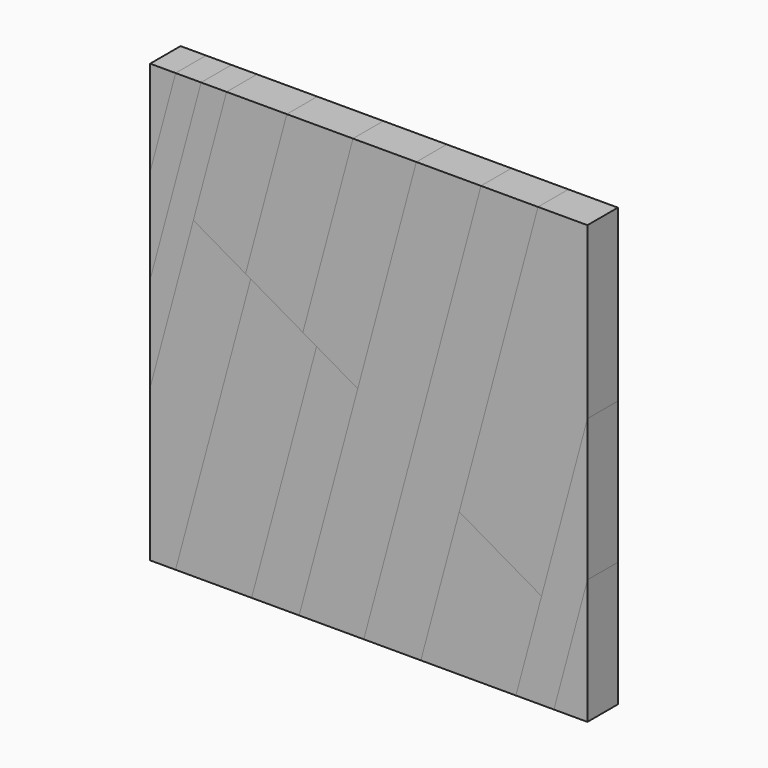
from build123d import *

# Parameters (mm, degrees)
F2_DEPTH  = 25.4
F3_DEPTH  = 25.4
F4_DEPTH  = 25.4
F5_DEPTH  = 25.4
F6_DEPTH  = 25.4
F7_DEPTH  = 25.4
F8_DEPTH  = 25.4
F9_DEPTH  = 25.4
F10_DEPTH = 25.4
F11_DEPTH = 25.4
F12_DEPTH = 25.4
F13_DEPTH = 25.4
F14_DEPTH = 25.4
F15_DEPTH = 25.4
F16_DEPTH = 25.4


with BuildPart() as f2:
    # F1 (on face) → F2 (new body)
    with BuildSketch(Plane.XZ):
        Polygon((115.398987, -82.094046), (98.262041, -146.05), (123.662041, -146.05), (146.05, -62.496999), (146.05, 32.297091), align=None)
    extrude(amount=F2_DEPTH)


with BuildPart() as f3:
    # F1 (on face) → F3 (new body)
    with BuildSketch(Plane.XZ):
        Polygon((146.05, -62.496999), (123.662041, -146.05), (146.05, -146.05), align=None)
    extrude(amount=F3_DEPTH)


with BuildPart() as f4:
    # F1 (on face) → F4 (new body)
    with BuildSketch(Plane.XZ):
        Polygon((60.406374, -50.344046), (34.762041, -146.05), (98.262041, -146.05), (115.398987, -82.094046), align=None)
    extrude(amount=F4_DEPTH)


with BuildPart() as f5:
    # F1 (on face) → F5 (new body)
    with BuildSketch(Plane.XZ):
        Polygon((113.03, 146.05), (60.406374, -50.344046), (115.398987, -82.094046), (146.05, 32.297091), (146.05, 146.05), align=None)
    extrude(amount=F5_DEPTH)


with BuildPart() as f6:
    # F1 (on face) → F6 (new body)
    with BuildSketch(Plane.XZ):
        Polygon((74.93, 146.05), (-3.337959, -146.05), (34.762041, -146.05), (60.406374, -50.344046), (113.03, 146.05), align=None)
    extrude(amount=F6_DEPTH)


with BuildPart() as f7:
    # F1 (on face) → F7 (new body)
    with BuildSketch(Plane.XZ):
        Polygon((-7.38398, 0), (-46.517959, -146.05), (-3.337959, -146.05), (74.93, 146.05), (31.75, 146.05), align=None)
    extrude(amount=F7_DEPTH)


with BuildPart() as f8:
    # F1 (on face) → F8 (new body)
    with BuildSketch(Plane.XZ):
        Polygon((-34.880286, 15.875), (-78.267959, -146.05), (-46.517959, -146.05), (-7.38398, 0), align=None)
    extrude(amount=F8_DEPTH)


with BuildPart() as f9:
    # F1 (on face) → F9 (new body)
    with BuildSketch(Plane.XZ):
        Polygon((-44.033108, 21.159384), (-34.880286, 15.875), (-7.38398, 0), (31.75, 146.05), (-10.568768, 146.05), align=None)
    extrude(amount=F9_DEPTH)


with BuildPart() as f10:
    # F1 (on face) → F10 (new body)
    with BuildSketch(Plane.XZ):
        Polygon((-82.298625, 43.251991), (-78.874377, 41.275), (-44.033108, 21.159384), (-10.568768, 146.05), (-54.753982, 146.05), align=None)
    extrude(amount=F10_DEPTH)


with BuildPart() as f11:
    # F1 (on face) → F11 (new body)
    with BuildSketch(Plane.XZ):
        Polygon((-78.874377, 41.275), (-129.067959, -146.05), (-78.267959, -146.05), (-34.880286, 15.875), (-44.033108, 21.159384), align=None)
    extrude(amount=F11_DEPTH)


with BuildPart() as f12:
    # F1 (on face) → F12 (new body)
    with BuildSketch(Plane.XZ):
        Polygon((-146.05, -44.45), (-146.05, -146.05), (-129.067959, -146.05), (-78.874377, 41.275), (-82.298625, 43.251991), (-117.157618, 63.377839), align=None)
    extrude(amount=F12_DEPTH)


with BuildPart() as f13:
    # F1 (on face) → F13 (new body)
    with BuildSketch(Plane.XZ):
        Polygon((-95.005679, 146.05), (-117.157618, 63.377839), (-82.298625, 43.251991), (-54.753982, 146.05), align=None)
    extrude(amount=F13_DEPTH)


with BuildPart() as f14:
    # F1 (on face) → F14 (new body)
    with BuildSketch(Plane.XZ):
        Polygon((-146.05, 19.05), (-146.05, -44.45), (-117.157618, 63.377839), (-95.005679, 146.05), (-112.020453, 146.05), align=None)
    extrude(amount=F14_DEPTH)


with BuildPart() as f15:
    # F1 (on face) → F15 (new body)
    with BuildSketch(Plane.XZ):
        Polygon((-146.05, 82.55), (-146.05, 19.05), (-112.020453, 146.05), (-129.035226, 146.05), align=None)
    extrude(amount=F15_DEPTH)


with BuildPart() as f16:
    # F1 (on face) → F16 (new body)
    with BuildSketch(Plane.XZ):
        Polygon((-146.05, 146.05), (-146.05, 82.55), (-129.035226, 146.05), align=None)
    extrude(amount=F16_DEPTH)


solid = Compound([f2.part, f3.part, f4.part, f5.part, f6.part, f7.part, f8.part, f9.part, f10.part, f11.part, f12.part, f13.part, f14.part, f15.part, f16.part])
